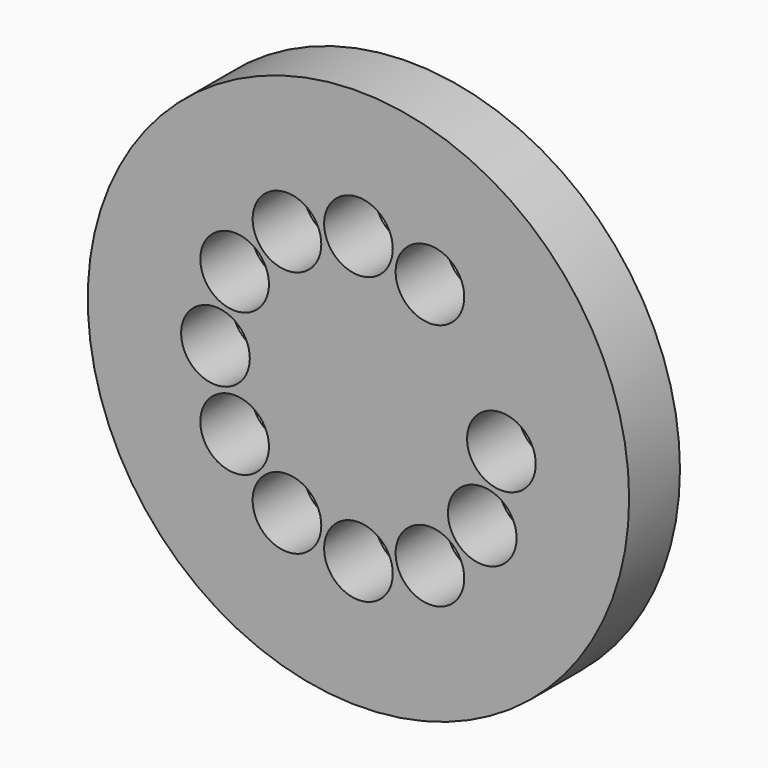
from build123d import *

# Parameters (mm, degrees)
F0_R     = 106.5
F0_R_2   = 75
F0_R_3   = 13.5
F0_R_4   = 37.5
F0_R_5   = 32.5
F1_DEPTH = 25


with BuildPart() as f1:
    # F0 (on Front) → F1 (new body)
    with BuildSketch(Plane.XZ):
        Circle(F0_R)
        Circle(F0_R_2, mode=Mode.SUBTRACT)
        Circle(F0_R_2)
        with Locations((-28.125, -48.7139289629)):
            Circle(F0_R_3, mode=Mode.SUBTRACT)
        with Locations((-48.7139289629, -28.125)):
            Circle(F0_R_3, mode=Mode.SUBTRACT)
        with Locations((0, -56.25)):
            Circle(F0_R_3, mode=Mode.SUBTRACT)
        with Locations((28.125, -48.7139289629)):
            Circle(F0_R_3, mode=Mode.SUBTRACT)
        with Locations((48.7139289629, -28.125)):
            Circle(F0_R_3, mode=Mode.SUBTRACT)
        with Locations((-56.25, 0)):
            Circle(F0_R_3, mode=Mode.SUBTRACT)
        with Locations((-48.7139289629, 28.125)):
            Circle(F0_R_3, mode=Mode.SUBTRACT)
        with Locations((-28.125, 48.7139289629)):
            Circle(F0_R_3, mode=Mode.SUBTRACT)
        Circle(F0_R_4, mode=Mode.SUBTRACT)
        with Locations((28.125, 48.7139289629)):
            Circle(F0_R_3, mode=Mode.SUBTRACT)
        with Locations((56.25, 0)):
            Circle(F0_R_3, mode=Mode.SUBTRACT)
        with Locations((0, 56.25)):
            Circle(F0_R_3, mode=Mode.SUBTRACT)
        Circle(F0_R_4)
        Circle(F0_R_5, mode=Mode.SUBTRACT)
        Circle(F0_R_5)
    extrude(amount=F1_DEPTH)


solid = f1.part
